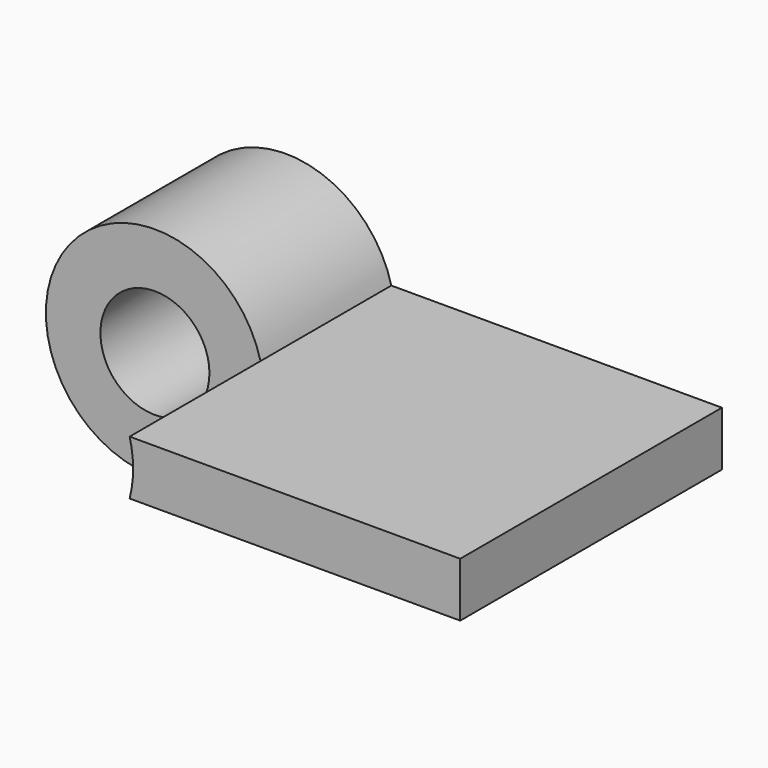
from build123d import *

# Parameters (mm, degrees)
F0_R     = 10
F1_DEPTH = 30
F2_DEPTH = 60


with BuildPart() as f1:
    # F0 (on Front) → F1 (new body)
    with BuildSketch(Plane.XZ):
        with BuildLine():
            ThreePointArc((19.364917, -5), (19.840594, -2.520086), (20, 0))
            ThreePointArc((20, 0), (19.840594, 2.520086), (19.364917, 5))
            ThreePointArc((19.364917, 5), (-20, 0), (19.364917, -5))
        make_face()
        Circle(F0_R, mode=Mode.SUBTRACT)
    extrude(amount=F1_DEPTH)

    # F0 (on Front) → F2 (join)
    with BuildSketch(Plane.XZ):
        with BuildLine():
            ThreePointArc((19.364917, 5), (19.840594, 2.520086), (20, 0))
            Line((20, 0), (80, 0))
            Line((80, 0), (80, 5))
            Line((80, 5), (19.364917, 5))
        make_face()
        with BuildLine():
            Line((80, 0), (20, 0))
            ThreePointArc((20, 0), (19.840594, -2.520086), (19.364917, -5))
            Line((19.364917, -5), (80, -5))
            Line((80, -5), (80, 0))
        make_face()
    extrude(amount=F2_DEPTH)


solid = f1.part
